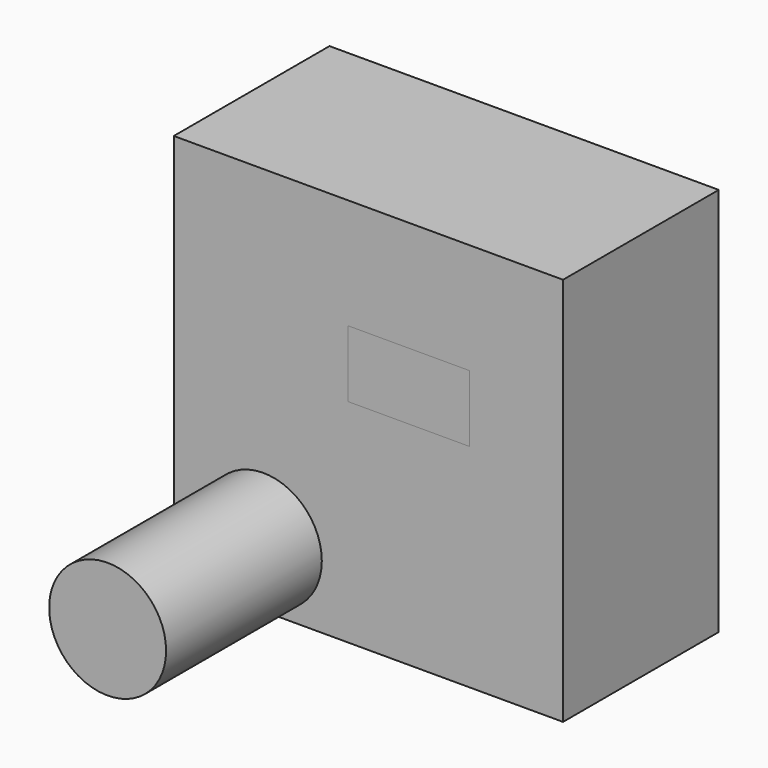
from build123d import *

# Parameters (mm, degrees)
F0_W     = 15.90186
F0_H     = 8.711457
F1_DEPTH = 25.4
F0_R     = 7.631491
F2_DEPTH = 50.8
F0_W_2   = 50.8
F0_H_2   = 50.8
F3_DEPTH = 25.4


with BuildPart() as f1:
    # F0 (on Front) → F1 (new body)
    with BuildSketch(Plane.XZ):
        with Locations((-46.330543, -45.110445)):
            Rectangle(F0_W, F0_H)
    extrude(amount=F1_DEPTH)


with BuildPart() as f2:
    # F0 (on Front) → F2 (new body)
    with BuildSketch(Plane.XZ):
        with Locations((-65.30489, -68.882987)):
            Circle(F0_R)
    extrude(amount=F2_DEPTH)


with BuildPart() as f3:
    # F0 (on Front) → F3 (new body)
    with BuildSketch(Plane.XZ):
        with Locations((-51.590448, -51.743596)):
            Rectangle(F0_W_2, F0_H_2)
        with Locations((-65.30489, -68.882987)):
            Circle(F0_R, mode=Mode.SUBTRACT)
        with Locations((-46.330543, -45.110445)):
            Rectangle(F0_W, F0_H, mode=Mode.SUBTRACT)
    extrude(amount=F3_DEPTH)


solid = Compound([f1.part, f2.part, f3.part])
